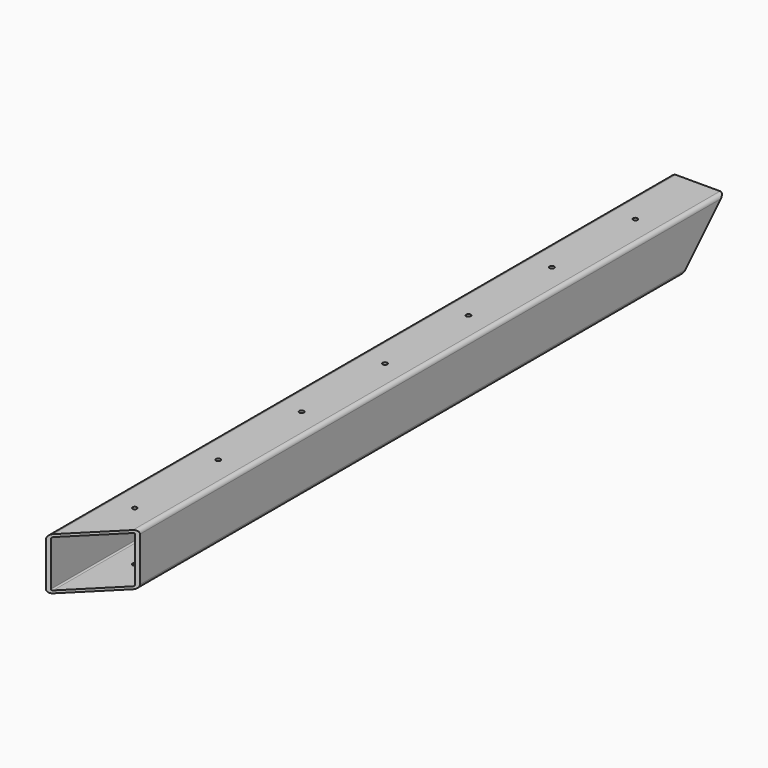
from build123d import *

# Parameters (mm, degrees)
F2_W            = 40
F2_H            = 40
F3_DEPTH        = 300
F4_R            = 3
F5_T            = -2
F7_DEPTH        = 40.001
F9_DEPTH        = 40.001
F11_D           = 3.5
F11_CSINK_D     = 6
F11_CSINK_ANGLE = 90


with BuildPart() as f3:
    # F2 (on Front) → F3 (new body, symmetric)
    with BuildSketch(Plane.XZ):
        Rectangle(F2_W, F2_H)
    extrude(amount=F3_DEPTH, both=True)

    # F4
    f4_edges = [f3.edges().sort_by_distance(p)[0] for p in [
        (20, 0, 20),
        (-20, 0, 20),
        (20, 0, -20),
        (-20, 0, -20),
    ]]
    fillet(f4_edges, radius=F4_R)

    # F5
    f5_openings = [f3.faces().sort_by_distance(p)[0] for p in [
        (0, -300, 0),
        (0, 300, 0),
    ]]
    offset(amount=F5_T, openings=f5_openings)

    # F6 (on face) → F7 (cut, through all)
    with BuildSketch(Plane(origin=(-20, 0, 0), x_dir=(0, -1, 0), z_dir=(-1, 0, 0))):
        Polygon((-300, 20), (-300, -20), (-260, -20), align=None)
    extrude(amount=-F7_DEPTH, mode=Mode.SUBTRACT)

    # F8 (on face) → F9 (cut, through all)
    with BuildSketch(Plane.XY.offset(20)):
        Polygon((20, -300), (20, -260), (-20, -300), align=None)
    extrude(amount=-F9_DEPTH, mode=Mode.SUBTRACT)

    # F11 (through all)
    with Locations(Plane(origin=(0, 0, -20), x_dir=(1, 0, 0), z_dir=(0, 0, -1))):
        with Locations((0, 240), (0, 160), (0, 80), (0, 0), (0, -80), (0, -160), (0, -240)):
            CounterSinkHole(F11_D / 2, F11_CSINK_D / 2, counter_sink_angle=F11_CSINK_ANGLE)


solid = f3.part
